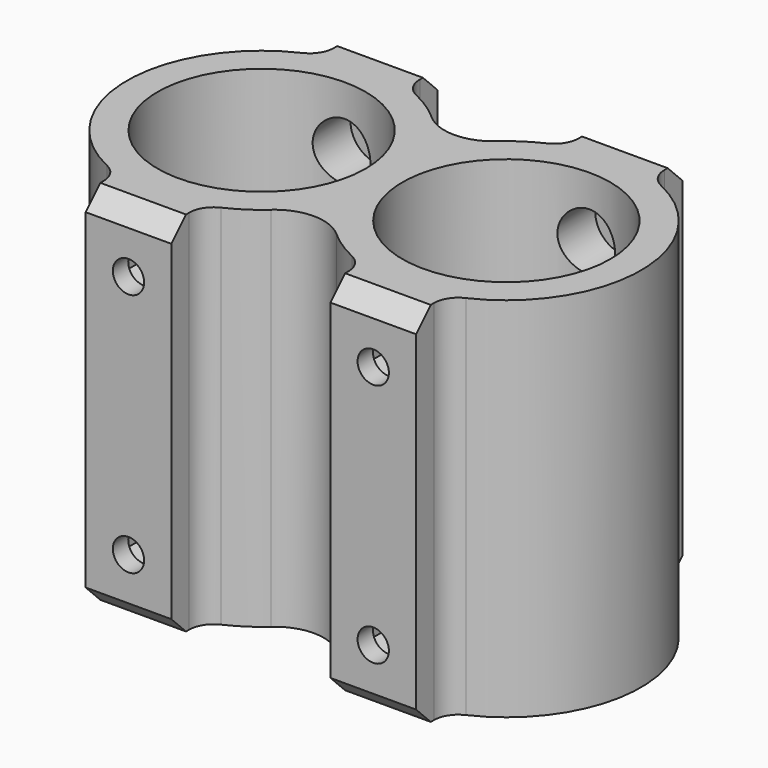
from build123d import *

# Parameters (mm, degrees)
F0_R     = 10.795
F1_DEPTH = 38.1
F3_D     = 3.25
F4_R     = 3
F5_DEPTH = 15.272
F7_DEPTH = 15.272
F8_SIZE  = 1.905
F9_R     = 5.08
F10_R    = 2.54


with BuildPart() as f1:
    # F0 (on Top) → F1 (new body)
    with BuildSketch(Plane.XY):
        with BuildLine():
            ThreePointArc((8.255, 13.2439750453), (3.3583146073, 10.3871947138), (0, 5.8198711326))
            ThreePointArc((0, 5.8198711326), (-3.3583146073, 10.3871947138), (-8.255, 13.2439750453))
            Line((-8.255, 13.2439750453), (-8.255, 17.272))
            Line((-8.255, 17.272), (-17.145, 17.272))
            Line((-17.145, 17.272), (-17.145, 13.2439750453))
            ThreePointArc((-17.145, 13.2439750453), (-26.67, 0), (-17.145, -13.2439750453))
            Line((-17.145, -13.2439750453), (-17.145, -17.272))
            Line((-17.145, -17.272), (-8.255, -17.272))
            Line((-8.255, -17.272), (-8.255, -13.2439750453))
            ThreePointArc((-8.255, -13.2439750453), (-3.3583146073, -10.3871947138), (0, -5.8198711326))
            ThreePointArc((0, -5.8198711326), (3.3583146073, -10.3871947138), (8.255, -13.2439750453))
            Line((8.255, -13.2439750453), (8.255, -17.272))
            Line((8.255, -17.272), (17.145, -17.272))
            Line((17.145, -17.272), (17.145, -13.2439750453))
            ThreePointArc((17.145, -13.2439750453), (26.67, 0), (17.145, 13.2439750453))
            Line((17.145, 13.2439750453), (17.145, 17.272))
            Line((17.145, 17.272), (8.255, 17.272))
            Line((8.255, 17.272), (8.255, 13.2439750453))
        make_face()
        with Locations((-12.7, 0)):
            Circle(F0_R, mode=Mode.SUBTRACT)
        with Locations((12.7, 0)):
            Circle(F0_R, mode=Mode.SUBTRACT)
    extrude(amount=F1_DEPTH)

    # F3 (through all)
    with Locations(Plane.XZ.offset(17.272)):
        with Locations((-12.7, 31.75), (12.7, 31.75), (12.7, 6.35), (-12.7, 6.35)):
            Hole(F3_D / 2)

    # F4 (on Front) → F5 (cut, through all)
    with BuildSketch(Plane.XZ):
        with Locations((-12.7, 31.75)):
            Circle(F4_R)
        with Locations((-12.7, 6.35)):
            Circle(F4_R)
        with Locations((12.7, 6.35)):
            Circle(F4_R)
        with Locations((12.7, 31.75)):
            Circle(F4_R)
    extrude(amount=-F5_DEPTH, mode=Mode.SUBTRACT)

    # F6 (on Front) → F7 (cut, through all)
    with BuildSketch(Plane.XZ):
        Polygon((-9.9568, 30.1662127416), (-9.9568, 33.3337872584), (-12.7, 34.9175745169), (-15.4432, 33.3337872584), (-15.4432, 30.1662127416), (-12.7, 28.5824254831), align=None)
        Polygon((-9.9568, 4.7662127416), (-9.9568, 7.9337872584), (-12.7, 9.5175745169), (-15.4432, 7.9337872584), (-15.4432, 4.7662127416), (-12.7, 3.1824254831), align=None)
        Polygon((15.4432, 4.7662127416), (15.4432, 7.9337872584), (12.7, 9.5175745169), (9.9568, 7.9337872584), (9.9568, 4.7662127416), (12.7, 3.1824254831), align=None)
        Polygon((15.4432, 30.1662127416), (15.4432, 33.3337872584), (12.7, 34.9175745169), (9.9568, 33.3337872584), (9.9568, 30.1662127416), (12.7, 28.5824254831), align=None)
    extrude(amount=F7_DEPTH, mode=Mode.SUBTRACT)

    # F8
    f8_edges = [f1.edges().sort_by_distance(p)[0] for p in [
        (12.7, -17.272, 38.1),
        (12.7, -17.272, 0),
        (-12.7, -17.272, 0),
        (-12.7, -17.272, 38.1),
        (12.7, 17.272, 38.1),
        (12.7, 17.272, 0),
        (-12.7, 17.272, 0),
        (-12.7, 17.272, 38.1),
    ]]
    chamfer(f8_edges, length=F8_SIZE)

    # F9
    f9_edges = [f1.edges().sort_by_distance(p)[0] for p in [
        (0, 5.819871, 19.05),
        (0, -5.819871, 19.05),
    ]]
    fillet(f9_edges, radius=F9_R)

    # F10
    f10_edges = [f1.edges().sort_by_distance(p)[0] for p in [
        (-8.255, -13.243975, 19.05),
        (8.255, -13.243975, 19.05),
        (17.145, -13.243975, 19.05),
        (17.145, 13.243975, 19.05),
        (8.255, 13.243975, 19.05),
        (-17.145, 13.243975, 19.05),
        (-8.255, 13.243975, 19.05),
        (-17.145, -13.243975, 19.05),
    ]]
    fillet(f10_edges, radius=F10_R)


solid = f1.part
